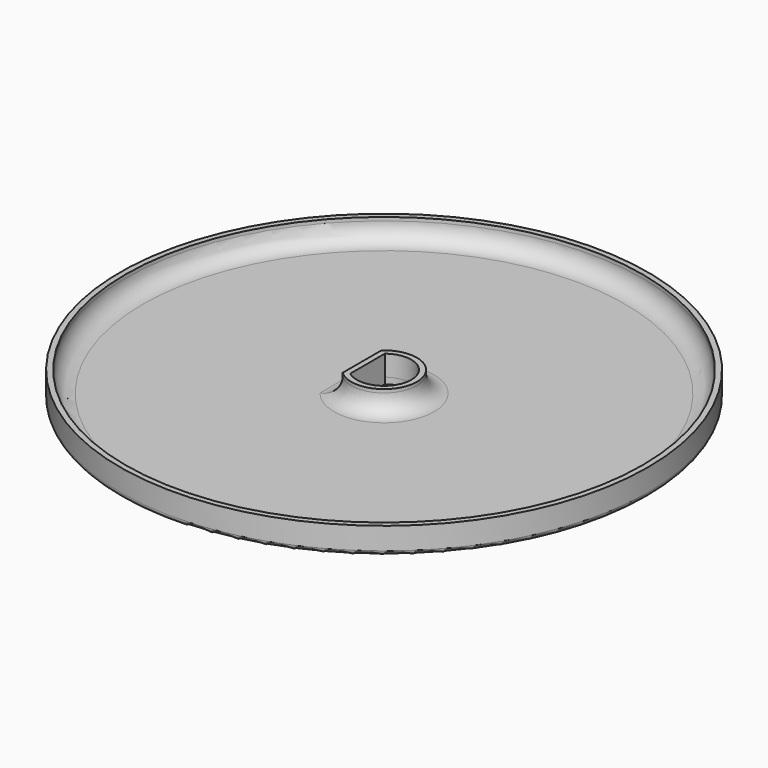
from build123d import *

# Parameters (mm, degrees)
F0_R     = 38.25
F1_DEPTH = 0.9
F2_R     = 38.25
F2_R_2   = 37.45
F3_DEPTH = 3
F4_R     = 2.5
F5_R     = 0.7


with BuildPart() as f1:
    # F0 (on Top) → F1 (new body)
    with BuildSketch(Plane.XY):
        Circle(F0_R)
        with BuildLine():
            ThreePointArc((2.4, 3.1372758884), (3.5413627321, 1.7496428207), (3.95, 0))
            ThreePointArc((3.95, 0), (3.5413627321, -1.7496428207), (2.4, -3.1372758884))
            ThreePointArc((2.4, -3.1372758884), (0, -3.95), (-2.4, -3.1372758884))
            ThreePointArc((-2.4, -3.1372758884), (-3.95, 0), (-2.4, 3.1372758884))
            ThreePointArc((-2.4, 3.1372758884), (0, 3.95), (2.4, 3.1372758884))
        make_face(mode=Mode.SUBTRACT)
        with BuildLine():
            Line((-2.4, -3.1372758884), (-2.4, 3.1372758884))
            ThreePointArc((-2.4, 3.1372758884), (-3.95, 0), (-2.4, -3.1372758884))
        make_face()
    extrude(amount=F1_DEPTH)

    # F2 (on face) → F3 (join)
    with BuildSketch(Plane.XY.offset(0.9)):
        Circle(F2_R)
        Circle(F2_R_2, mode=Mode.SUBTRACT)
        with BuildLine():
            Line((-3.2, 3.5103418637), (-3.2, -3.5103418637))
            ThreePointArc((-3.2, -3.5103418637), (4.75, 0), (-3.2, 3.5103418637))
        make_face()
        with BuildLine():
            ThreePointArc((-2.4, 3.1372758884), (3.95, 0), (-2.4, -3.1372758884))
            Line((-2.4, -3.1372758884), (-2.4, 3.1372758884))
        make_face(mode=Mode.SUBTRACT)
    extrude(amount=F3_DEPTH)

    # F4
    f4_edges = [f1.edges().sort_by_distance(p)[0] for p in [
        (-37.45, 0, 0.9),
        (-3.2, 0, 0.9),
        (4.75, 0, 0.9),
    ]]
    fillet(f4_edges, radius=F4_R)

    # F5
    f5_edges = [f1.edges().sort_by_distance(p)[0] for p in [
        (-38.25, 0, 0),
    ]]
    fillet(f5_edges, radius=F5_R)


solid = f1.part
